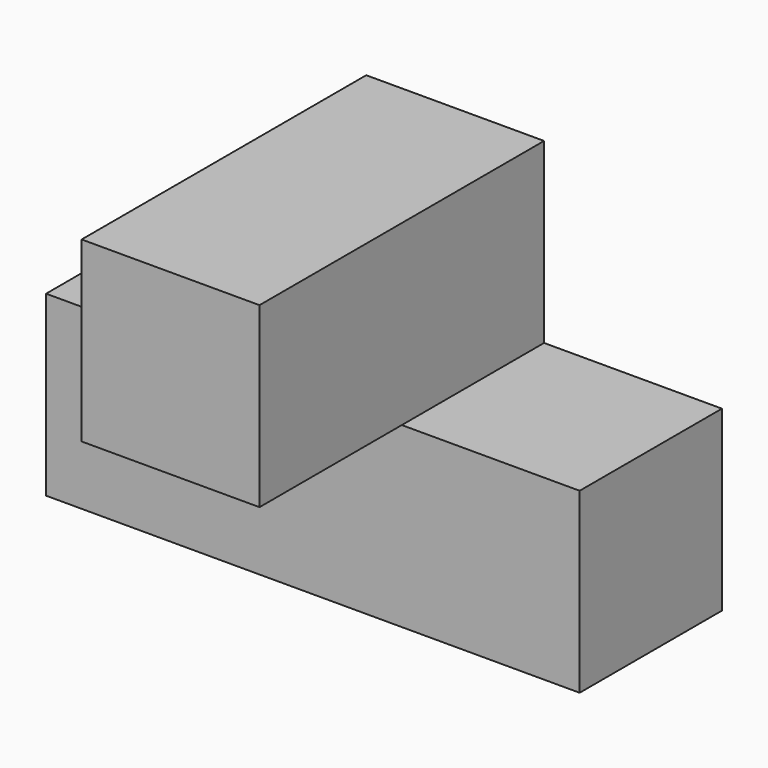
from build123d import *

# Parameters (mm, degrees)
F1_DEPTH = 19.05
F2_W     = 19.05
F2_H     = 19.05
F3_DEPTH = 19.05


with BuildPart() as f1:
    # F0 (on Front) → F1 (new body)
    with BuildSketch(Plane.XZ):
        Polygon((0, 19.05), (0, 0), (57.15, 0), (57.15, 19.05), (38.1, 19.05), (38.1, 38.1), (19.05, 38.1), (19.05, 19.05), align=None)
    extrude(amount=F1_DEPTH)

    # F2 (on face) → F3 (join)
    with BuildSketch(Plane.XZ.offset(19.05)):
        with Locations((28.575, 28.575)):
            Rectangle(F2_W, F2_H)
    extrude(amount=F3_DEPTH)


solid = f1.part
